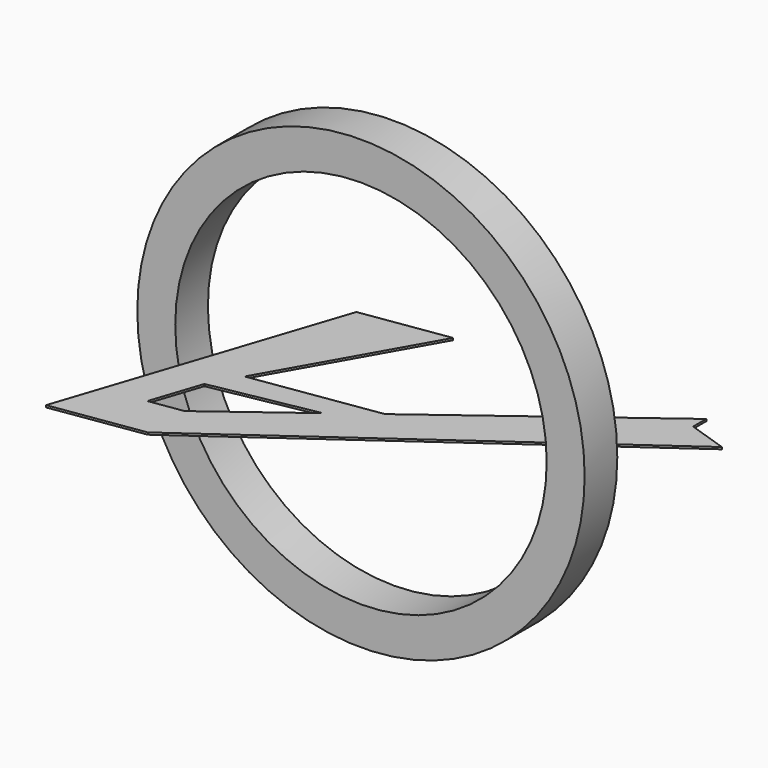
from build123d import *

# Parameters (mm, degrees)
F0_R     = 139.156762
F0_R_2   = 115.550179
F1_DEPTH = 25.4
F3_DEPTH = 1.27


with BuildPart() as f1:
    # F0 (on Front) → F1 (new body)
    with BuildSketch(Plane.XZ):
        Circle(F0_R)
        Circle(F0_R_2, mode=Mode.SUBTRACT)
    extrude(amount=F1_DEPTH)

    # F2 (on Top) → F3 (join)
    with BuildSketch(Plane.XY):
        Polygon((-53.743511, 38.209133), (-110.224955, -132.497221), (-53.743511, -124.018393), (173.675209, 38.209133), (149.291489, 46.27695), (149.291489, 56.531351), (24.250291, -36.975841), (0, -55.110477), (-53.743511, -95.30047), (-74.512511, -98.418251), (-64.128011, -67.032719), (-53.743511, -48.68404), (0, 46.27695), align=None)
        Polygon((24.250291, -36.975841), (-53.743511, -48.68404), (-64.128011, -67.032719), (0, -55.110477), align=None)
    extrude(amount=F3_DEPTH)


solid = f1.part
